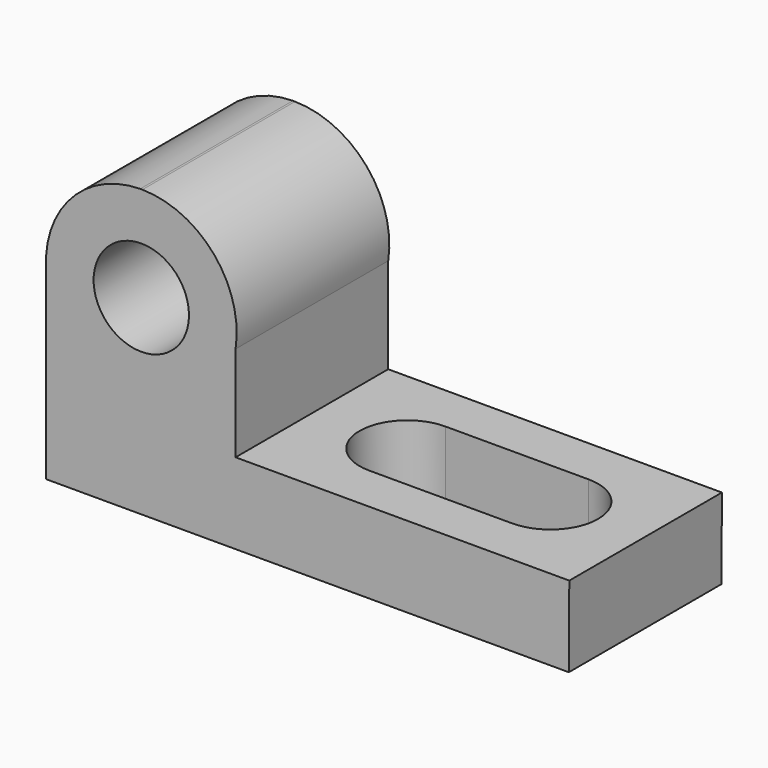
from build123d import *

# Parameters (mm, degrees)
F2_DEPTH = 25.4
F3_R     = 6.349176
F4_DEPTH = 25.401
F6_DEPTH = 23.465528
F7_W     = 44.45
F7_H     = 25.4
F8_DEPTH = 12.7


with BuildPart() as f2:
    # F1 (on face) → F2 (new body)
    with BuildSketch(Plane.XZ):
        with BuildLine():
            Line((11.798794, 39.917438), (-32.651206, 39.917438))
            ThreePointArc((-32.651206, 39.917438), (-35.515616, 50.065544), (-45.058145, 54.552085))
            Line((-45.058145, 54.552085), (-45.347569, 54.552085))
            ThreePointArc((-45.347569, 54.552085), (-53.956125, 51.054556), (-57.87898, 42.631305))
            Line((-57.87898, 42.631305), (-57.87898, 16.452909))
            Line((-57.87898, 16.452909), (11.716359, 16.452909))
            Line((11.716359, 16.452909), (11.798794, 30.775242))
            Line((11.798794, 30.775242), (11.798794, 39.917438))
        make_face()
    extrude(amount=F2_DEPTH)

    # F3 (on face) → F4 (cut, through all)
    with BuildSketch(Plane.XZ.offset(25.4)):
        with Locations((-45.202857, 41.852909)):
            Circle(F3_R)
    extrude(amount=-F4_DEPTH, mode=Mode.SUBTRACT)

    # F5 (on face) → F6 (cut, through all)
    with BuildSketch(Plane.XY.offset(39.917438)):
        with BuildLine():
            Line((-19.951206, -12.7), (-19.951206, -6.35))
            ThreePointArc((-19.951206, -6.35), (-26.301206, -12.7), (-19.951206, -19.05))
            Line((-19.951206, -19.05), (-19.951206, -12.7))
        make_face()
        with BuildLine():
            ThreePointArc((-13.601206, -12.7), (-15.461078, -8.209872), (-19.951206, -6.35))
            Line((-19.951206, -6.35), (-19.951206, -12.7))
            Line((-19.951206, -12.7), (-19.951206, -19.05))
            ThreePointArc((-19.951206, -19.05), (-15.461078, -17.190128), (-13.601206, -12.7))
        make_face()
        with BuildLine():
            ThreePointArc((-0.901206, -19.05), (-7.251206, -12.7), (-0.901206, -6.35))
            Line((-0.901206, -6.35), (-19.951206, -6.35))
            ThreePointArc((-19.951206, -6.35), (-15.461078, -8.209872), (-13.601206, -12.7))
            ThreePointArc((-13.601206, -12.7), (-15.461078, -17.190128), (-19.951206, -19.05))
            Line((-19.951206, -19.05), (-0.901206, -19.05))
        make_face()
        with BuildLine():
            ThreePointArc((-0.901206, -19.05), (3.588922, -17.190128), (5.448794, -12.7))
            ThreePointArc((5.448794, -12.7), (3.588922, -8.209872), (-0.901206, -6.35))
            ThreePointArc((-0.901206, -6.35), (-7.251206, -12.7), (-0.901206, -19.05))
        make_face()
    extrude(amount=-F6_DEPTH, mode=Mode.SUBTRACT)

    # F7 (on face) → F8 (cut)
    with BuildSketch(Plane.XY.offset(39.917438)):
        with Locations((-10.426206, -12.7)):
            Rectangle(F7_W, F7_H)
    extrude(amount=-F8_DEPTH, mode=Mode.SUBTRACT)


solid = f2.part
